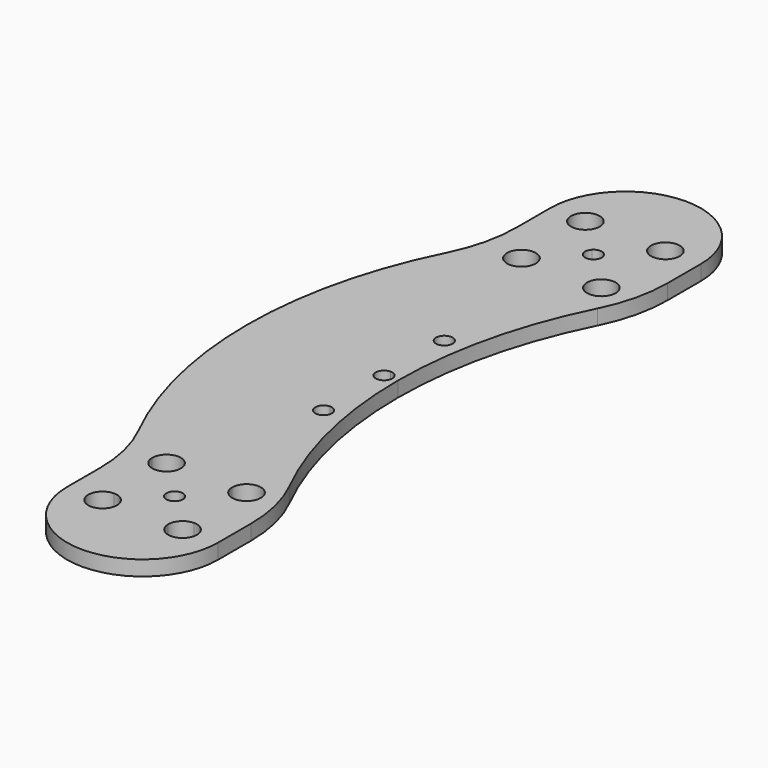
from build123d import *

# Parameters (mm, degrees)
F0_R     = 2.413
F1_DEPTH = 2.54
F2_R     = 1.397
F3_DEPTH = 2.541
F4_R     = 25.4


with BuildPart() as f1:
    # F0 (on Top) → F1 (new body)
    with BuildSketch(Plane.XY):
        with BuildLine():
            Line((12.7, 37.3346617284), (12.7, 50.8))
            ThreePointArc((12.7, 50.8), (0, 63.5), (-12.7, 50.8))
            Line((-12.7, 50.8), (-12.7, 37.3346617284))
            Line((-12.7, 37.3346617284), (-9.144, 37.3346617284))
            ThreePointArc((-9.144, 37.3346617284), (-6.731, 39.7476617284), (-4.318, 37.3346617284))
            Line((-4.318, 37.3346617284), (4.318, 37.3346617284))
            ThreePointArc((4.318, 37.3346617284), (6.731, 39.7476617284), (9.144, 37.3346617284))
            Line((9.144, 37.3346617284), (12.7, 37.3346617284))
        make_face()
        with Locations((-6.731, 50.7966617284)):
            Circle(F0_R, mode=Mode.SUBTRACT)
        with Locations((6.731, 50.7966617284)):
            Circle(F0_R, mode=Mode.SUBTRACT)
        with BuildLine():
            ThreePointArc((2.3296350653, 0), (4.9703931971, 19.3740898835), (12.7, 37.3346617284))
            Line((12.7, 37.3346617284), (9.144, 37.3346617284))
            ThreePointArc((9.144, 37.3346617284), (6.731, 34.9216617284), (4.318, 37.3346617284))
            Line((4.318, 37.3346617284), (-4.318, 37.3346617284))
            ThreePointArc((-4.318, 37.3346617284), (-6.731, 34.9216617284), (-9.144, 37.3346617284))
            Line((-9.144, 37.3346617284), (-12.7, 37.3346617284))
            Line((-12.7, 37.3346617284), (-12.7, -37.3346617284))
            Line((-12.7, -37.3346617284), (-9.144, -37.3346617284))
            ThreePointArc((-9.144, -37.3346617284), (-6.731, -34.9216617284), (-4.318, -37.3346617284))
            Line((-4.318, -37.3346617284), (4.318, -37.3346617284))
            ThreePointArc((4.318, -37.3346617284), (6.731, -34.9216617284), (9.144, -37.3346617284))
            Line((9.144, -37.3346617284), (12.7, -37.3346617284))
            ThreePointArc((12.7, -37.3346617284), (4.9703931971, -19.3740898835), (2.3296350653, 0))
        make_face()
        with BuildLine():
            Line((-12.7, -37.3346617284), (-12.7, 37.3346617284))
            ThreePointArc((-12.7, 37.3346617284), (-23.0703649347, 0), (-12.7, -37.3346617284))
        make_face()
        with BuildLine():
            Line((12.7, -50.8), (12.7, -37.3346617284))
            Line((12.7, -37.3346617284), (9.144, -37.3346617284))
            ThreePointArc((9.144, -37.3346617284), (8.437248663, -39.0409103914), (6.731, -39.7476617284))
            Line((6.731, -39.7476617284), (6.731, -48.3836617284))
            ThreePointArc((6.731, -48.3836617284), (8.437248663, -49.0904130654), (9.144, -50.7966617284))
            ThreePointArc((9.144, -50.7966617284), (6.731, -53.2096617284), (4.318, -50.7966617284))
            Line((4.318, -50.7966617284), (-4.318, -50.7966617284))
            ThreePointArc((-4.318, -50.7966617284), (-8.437248663, -52.5029103914), (-6.731, -48.3836617284))
            Line((-6.731, -48.3836617284), (-6.731, -39.7476617284))
            ThreePointArc((-6.731, -39.7476617284), (-8.437248663, -39.0409103914), (-9.144, -37.3346617284))
            Line((-9.144, -37.3346617284), (-12.7, -37.3346617284))
            Line((-12.7, -37.3346617284), (-12.7, -50.8))
            ThreePointArc((-12.7, -50.8), (0, -63.5), (12.7, -50.8))
        make_face()
        with BuildLine():
            ThreePointArc((6.731, -39.7476617284), (5.024751337, -39.0409103914), (4.318, -37.3346617284))
            Line((4.318, -37.3346617284), (-4.318, -37.3346617284))
            ThreePointArc((-4.318, -37.3346617284), (-5.024751337, -39.0409103914), (-6.731, -39.7476617284))
            Line((-6.731, -39.7476617284), (-6.731, -48.3836617284))
            ThreePointArc((-6.731, -48.3836617284), (-5.024751337, -49.0904130654), (-4.318, -50.7966617284))
            Line((-4.318, -50.7966617284), (4.318, -50.7966617284))
            ThreePointArc((4.318, -50.7966617284), (5.024751337, -49.0904130654), (6.731, -48.3836617284))
            Line((6.731, -48.3836617284), (6.731, -39.7476617284))
        make_face()
    extrude(amount=F1_DEPTH)

    # F2 (on face) → F3 (cut, through all)
    with BuildSketch(Plane.XY.offset(2.54)):
        with BuildLine():
            ThreePointArc((0, -1.397), (0.9878281733, -0.9878281733), (1.397, 0))
            ThreePointArc((1.397, 0), (0.9878281733, 0.9878281733), (0, 1.397))
            Line((0, 1.397), (0, -1.397))
        make_face()
        with BuildLine():
            ThreePointArc((1.397, -12.7112130487), (0.9878281733, -11.7233848754), (0, -11.3142130487))
            ThreePointArc((0, -11.3142130487), (-0.9878281733, -13.699041222), (1.397, -12.7112130487))
        make_face()
        with BuildLine():
            ThreePointArc((1.397, 12.6887869513), (-0.9878281733, 13.6766151246), (0, 11.2917869513))
            ThreePointArc((0, 11.2917869513), (0.9878281733, 11.700958778), (1.397, 12.6887869513))
        make_face()
        with BuildLine():
            Line((0, -1.397), (0, 1.397))
            ThreePointArc((0, 1.397), (-1.397, 0), (0, -1.397))
        make_face()
        with BuildLine():
            ThreePointArc((0.9878281733, 45.0534899017), (0, 45.4626617284), (-0.9878281733, 45.0534899017))
            Line((-0.9878281733, 45.0534899017), (0, 44.0656617284))
            Line((0, 44.0656617284), (0.9878281733, 45.0534899017))
        make_face()
        with BuildLine():
            Line((0, 44.0656617284), (-0.9878281733, 45.0534899017))
            ThreePointArc((-0.9878281733, 45.0534899017), (-1.397, 44.0656617284), (-0.9878281733, 43.0778335551))
            Line((-0.9878281733, 43.0778335551), (0, 44.0656617284))
        make_face()
        with BuildLine():
            Line((0.9878281733, 45.0534899017), (0, 44.0656617284))
            Line((0, 44.0656617284), (0.9878281733, 43.0778335551))
            ThreePointArc((0.9878281733, 43.0778335551), (1.2906597069, 43.5310529734), (1.397, 44.0656617284))
            ThreePointArc((1.397, 44.0656617284), (1.2906597069, 44.6002704834), (0.9878281733, 45.0534899017))
        make_face()
        with BuildLine():
            Line((0.9878281733, 43.0778335551), (0, 44.0656617284))
            Line((0, 44.0656617284), (-0.9878281733, 43.0778335551))
            ThreePointArc((-0.9878281733, 43.0778335551), (0, 42.6686617284), (0.9878281733, 43.0778335551))
        make_face()
        with Locations((0, -44.0656617284)):
            Circle(F2_R)
    extrude(amount=-F3_DEPTH, mode=Mode.SUBTRACT)

    # F4
    f4_edges = [f1.edges().sort_by_distance(p)[0] for p in [
        (12.7, 37.334662, 1.27),
        (12.7, -37.334662, 1.27),
        (-12.7, 37.334662, 1.27),
        (-12.7, -37.334662, 1.27),
    ]]
    fillet(f4_edges, radius=F4_R)


solid = f1.part
